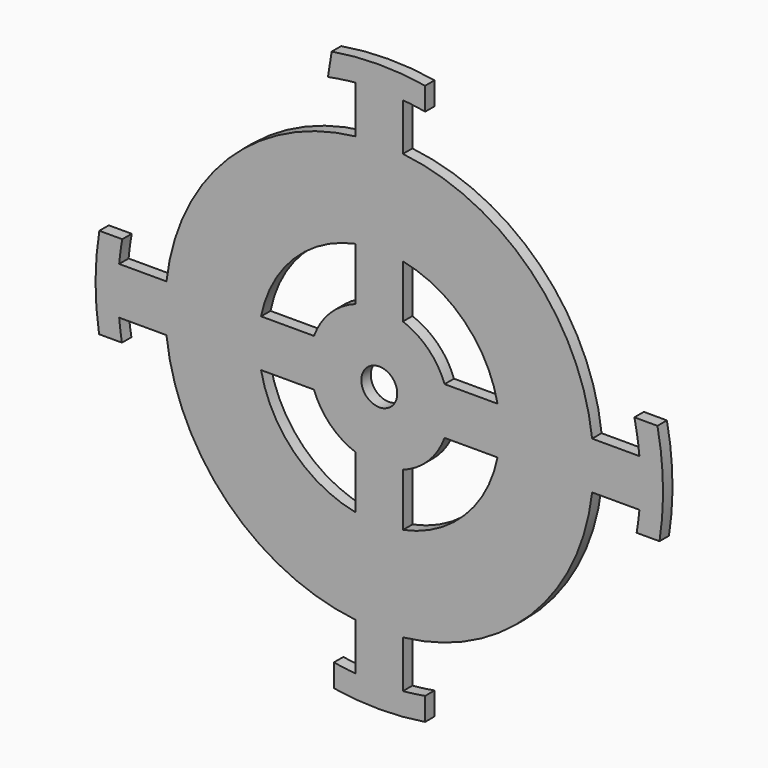
from build123d import *

# Parameters (mm, degrees)
F0_R     = 76.2
F0_R_2   = 4.826
F1_DEPTH = 3.175
F3_DEPTH = 25.4


with BuildPart() as f1:
    # F0 (on Front) → F1 (new body)
    with BuildSketch(Plane.XZ):
        Circle(F0_R)
        with BuildLine():
            ThreePointArc((-57.15, -6.35), (-40.659839, -40.659839), (-6.35, -57.15))
            Line((-6.35, -57.15), (-6.35, -69.85))
            ThreePointArc((-6.35, -69.85), (-49.595085, -49.595085), (-69.85, -6.35))
            Line((-69.85, -6.35), (-57.15, -6.35))
        make_face(mode=Mode.SUBTRACT)
        with BuildLine():
            Line((-31.75, -6.35), (-17.526, -6.35))
            ThreePointArc((-17.526, -6.35), (-13.181107, -13.181107), (-6.35, -17.526))
            Line((-6.35, -17.526), (-6.35, -31.75))
            ThreePointArc((-6.35, -31.75), (-22.895251, -22.895251), (-31.75, -6.35))
        make_face(mode=Mode.SUBTRACT)
        with BuildLine():
            Line((6.35, -31.75), (6.35, -17.526))
            ThreePointArc((6.35, -17.526), (13.181107, -13.181107), (17.526, -6.35))
            Line((17.526, -6.35), (31.75, -6.35))
            ThreePointArc((31.75, -6.35), (22.895251, -22.895251), (6.35, -31.75))
        make_face(mode=Mode.SUBTRACT)
        with BuildLine():
            ThreePointArc((6.35, -57.15), (40.659839, -40.659839), (57.15, -6.35))
            Line((57.15, -6.35), (69.85, -6.35))
            ThreePointArc((69.85, -6.35), (49.595085, -49.595085), (6.35, -69.85))
            Line((6.35, -69.85), (6.35, -57.15))
        make_face(mode=Mode.SUBTRACT)
        with BuildLine():
            Line((-6.35, 31.75), (-6.35, 17.526))
            ThreePointArc((-6.35, 17.526), (-13.181107, 13.181107), (-17.526, 6.35))
            Line((-17.526, 6.35), (-31.75, 6.35))
            ThreePointArc((-31.75, 6.35), (-22.895251, 22.895251), (-6.35, 31.75))
        make_face(mode=Mode.SUBTRACT)
        with BuildLine():
            ThreePointArc((-6.35, 57.15), (-40.659839, 40.659839), (-57.15, 6.35))
            Line((-57.15, 6.35), (-69.85, 6.35))
            ThreePointArc((-69.85, 6.35), (-49.595085, 49.595085), (-6.35, 69.85))
            Line((-6.35, 69.85), (-6.35, 57.15))
        make_face(mode=Mode.SUBTRACT)
        Circle(F0_R_2, mode=Mode.SUBTRACT)
        with BuildLine():
            Line((31.75, 6.35), (17.526, 6.35))
            ThreePointArc((17.526, 6.35), (13.181107, 13.181107), (6.35, 17.526))
            Line((6.35, 17.526), (6.35, 31.75))
            ThreePointArc((6.35, 31.75), (22.895251, 22.895251), (31.75, 6.35))
        make_face(mode=Mode.SUBTRACT)
        with BuildLine():
            ThreePointArc((57.15, 6.35), (40.659839, 40.659839), (6.35, 57.15))
            Line((6.35, 57.15), (6.35, 69.85))
            ThreePointArc((6.35, 69.85), (49.595085, 49.595085), (69.85, 6.35))
            Line((69.85, 6.35), (57.15, 6.35))
        make_face(mode=Mode.SUBTRACT)
    extrude(amount=F1_DEPTH)

    # F2 (on face) → F3 (cut)
    with BuildSketch(Plane.XZ.offset(3.175)):
        Polygon((-81.831723, 12.460574), (-65.217622, 12.460574), (-44.52287, 45.105822), (-14.500901, 64.343199), (-12.169099, 78.916967), (-54.433033, 65.509103), align=None)
        Polygon((12.314837, 79.499915), (12.314837, 63.468769), (44.668611, 47.146149), (63.323036, 15.083852), (85.183688, 15.083852), (62.157135, 64.634673), align=None)
        Polygon((91.596149, -12.02336), (63.61451, -12.02336), (48.457786, -43.794177), (12.314837, -60.991228), (12.314837, -79.354182), (57.15, -66.820741), align=None)
        Polygon((-12.169099, -78.771226), (-12.169099, -63.5), (-48.312049, -43.794177), (-63.177295, -12.02336), (-81.248775, -12.02336), (-76.87664, -30.969264), (-63.177295, -60.991228), align=None)
    extrude(amount=-F3_DEPTH, mode=Mode.SUBTRACT)


solid = f1.part
